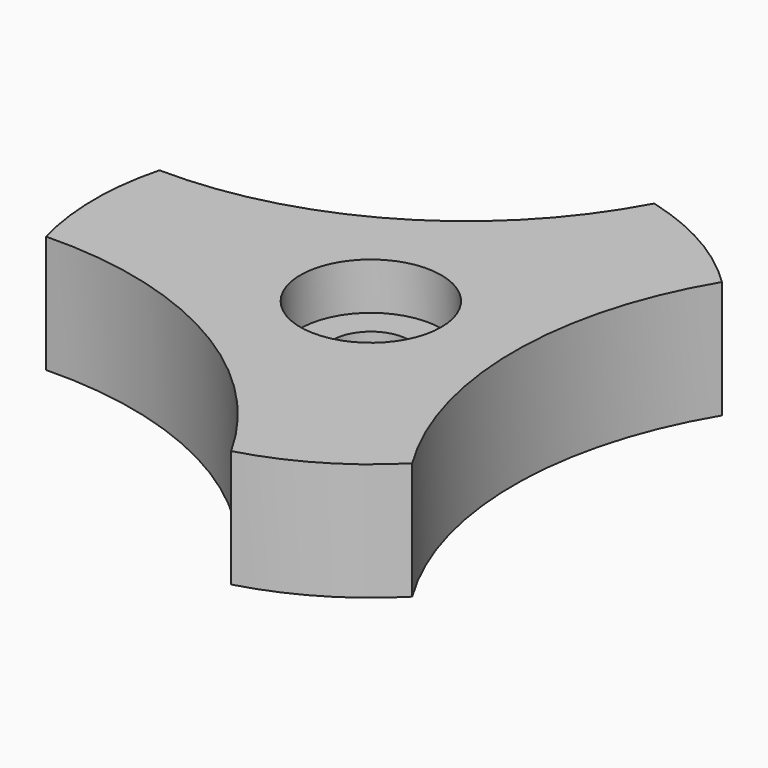
from build123d import *

# Parameters (mm, degrees)
F1_DEPTH = 10
F2_DEPTH = 4
F3_D     = 6.6
F4_R     = 6
F4_R_2   = 3.3
F5_DEPTH = 4


with BuildPart() as f1:
    # F0 (on Top) → F1 (new body)
    with BuildSketch(Plane.XY):
        with BuildLine():
            Line((5.930585, 22.739353), (16.505714, 16.727564))
            ThreePointArc((16.505714, 16.727564), (11.613883, 20.42958), (5.930585, 22.739353))
        make_face()
        with BuildLine():
            Line((-22.65815, -6.233639), (-22.739353, 5.930585))
            ThreePointArc((-22.739353, 5.930585), (-23.499476, -0.156872), (-22.65815, -6.233639))
        make_face()
        with BuildLine():
            ThreePointArc((6.233639, -22.65815), (11.885593, -20.272708), (16.727564, -16.505714))
            Line((16.727564, -16.505714), (6.233639, -22.65815))
        make_face()
        with BuildLine():
            ThreePointArc((16.727564, -16.505714), (11.964046, 0.079867), (16.505714, 16.727564))
            Line((16.505714, 16.727564), (5.930585, 22.739353))
            ThreePointArc((5.930585, 22.739353), (-6.05119, 10.321235), (-22.739353, 5.930585))
            Line((-22.739353, 5.930585), (-22.65815, -6.233639))
            ThreePointArc((-22.65815, -6.233639), (-5.912857, -10.401101), (6.233639, -22.65815))
            Line((6.233639, -22.65815), (16.727564, -16.505714))
        make_face()
        Polygon((-5.15, 2.973354), (0, 5.946708), (5.15, 2.973354), (5.15, -2.973354), (0, -5.946708), (-5.15, -2.973354), align=None, mode=Mode.SUBTRACT)
        Polygon((5.15, 2.973354), (0, 5.946708), (-5.15, 2.973354), (-5.15, -2.973354), (0, -5.946708), (5.15, -2.973354), align=None)
    extrude(amount=F1_DEPTH)

    # F0 (on Top) → F2 (cut)
    with BuildSketch(Plane.XY):
        Polygon((5.15, 2.973354), (0, 5.946708), (-5.15, 2.973354), (-5.15, -2.973354), (0, -5.946708), (5.15, -2.973354), align=None)
    extrude(amount=F2_DEPTH, mode=Mode.SUBTRACT)

    # F3 (through all)
    with Locations(Plane(origin=(0, 0, 0), x_dir=(1, 0, 0), z_dir=(0, 0, -1))):
        with Locations((0, 0)):
            Hole(F3_D / 2)

    # F4 (on face) → F5 (cut)
    with BuildSketch(Plane.XY.offset(10)):
        Circle(F4_R)
        Circle(F4_R_2, mode=Mode.SUBTRACT)
    extrude(amount=-F5_DEPTH, mode=Mode.SUBTRACT)


solid = f1.part
